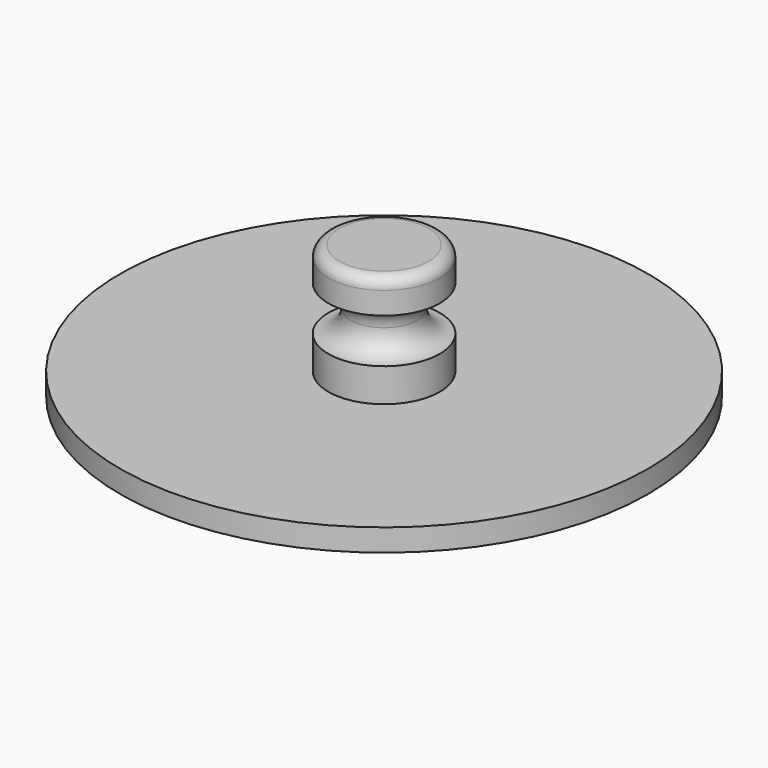
from build123d import *

# Parameters (mm, degrees)
SKETCH045_R  = 23.7
PAD019_DEPTH = 2
SKETCH046_R  = 5
PAD020_DEPTH = 3
SKETCH047_R  = 3
PAD021_DEPTH = 4
SKETCH048_R  = 5
PAD022_DEPTH = 3
FILLET_R     = 1.999
FILLET001_R  = 1.9999
FILLET002_R  = 1


with BuildPart() as part:
    # Sketch045 (on Face1 of CopyPocket022) → Pad019 (new body)
    with BuildSketch(Plane.XY.offset(60)):
        Circle(SKETCH045_R)
    extrude(amount=PAD019_DEPTH)

    # Sketch046 (on Face3 of Pad019) → Pad020 (join)
    with BuildSketch(Plane.XY.offset(62)):
        Circle(SKETCH046_R)
    extrude(amount=PAD020_DEPTH)

    # Sketch047 (on Face5 of Pad020) → Pad021 (join)
    with BuildSketch(Plane.XY.offset(65)):
        Circle(SKETCH047_R)
    extrude(amount=PAD021_DEPTH)

    # Sketch048 (on Face7 of Pad021) → Pad022 (join)
    with BuildSketch(Plane.XY.offset(69)):
        Circle(SKETCH048_R)
    extrude(amount=PAD022_DEPTH)

    # Fillet
    fillet_edges = [part.edges().sort_by_distance(p)[0] for p in [
        (-3, 0, 65),
    ]]
    fillet(fillet_edges, radius=FILLET_R)

    # Fillet001
    fillet001_edges = [part.edges().sort_by_distance(p)[0] for p in [
        (-3, 0, 69),
    ]]
    fillet(fillet001_edges, radius=FILLET001_R)

    # Fillet002
    fillet002_edges = [part.edges().sort_by_distance(p)[0] for p in [
        (-5, 0, 72),
    ]]
    fillet(fillet002_edges, radius=FILLET002_R)


solid = part.part
